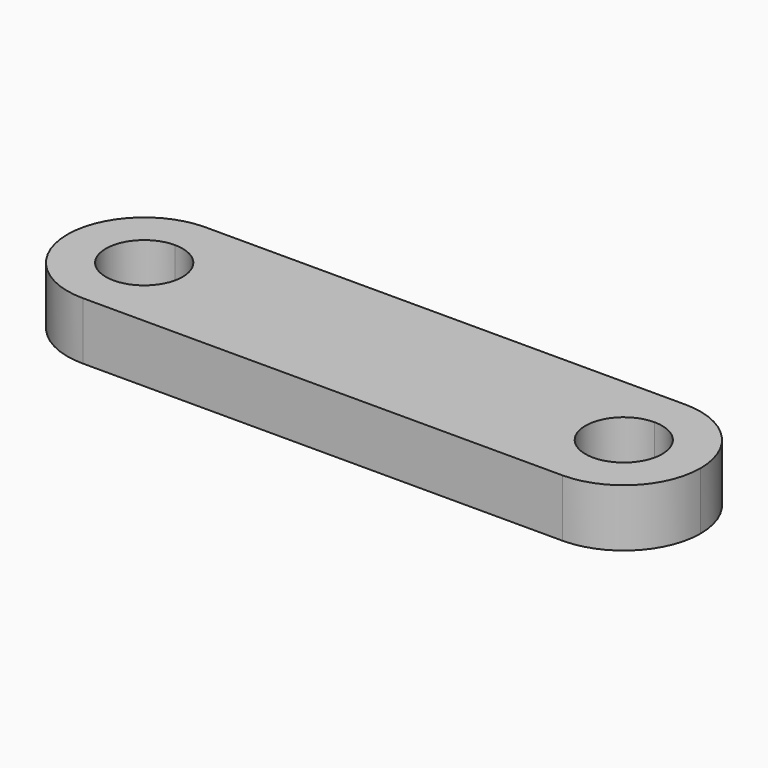
from build123d import *

# Parameters (mm, degrees)
F1_DEPTH = 3


with BuildPart() as f1:
    # F0 (on Top) → F1 (new body)
    with BuildSketch(Plane.XY):
        with BuildLine():
            ThreePointArc((12.5, 4), (8.5, 0), (12.5, -4))
            Line((12.5, -4), (12.5, -2))
            ThreePointArc((12.5, -2), (10.5, 0), (12.5, 2))
            Line((12.5, 2), (12.5, 4))
        make_face()
        with BuildLine():
            Line((-12.5, -4), (12.5, -4))
            ThreePointArc((12.5, -4), (8.5, 0), (12.5, 4))
            Line((12.5, 4), (-12.5, 4))
            ThreePointArc((-12.5, 4), (-9.6715728753, 2.8284271247), (-8.5, 0))
            ThreePointArc((-8.5, 0), (-9.6715728753, -2.8284271247), (-12.5, -4))
        make_face()
        with BuildLine():
            Line((12.5, -2), (12.5, -4))
            ThreePointArc((12.5, -4), (15.3284271247, -2.8284271247), (16.5, 0))
            ThreePointArc((16.5, 0), (15.3284271247, 2.8284271247), (12.5, 4))
            Line((12.5, 4), (12.5, 2))
            ThreePointArc((12.5, 2), (13.9142135624, 1.4142135624), (14.5, 0))
            ThreePointArc((14.5, 0), (13.9142135624, -1.4142135624), (12.5, -2))
        make_face()
        with BuildLine():
            ThreePointArc((-12.5, 4), (-16.5, 0), (-12.5, -4))
            Line((-12.5, -4), (-12.5, -2))
            ThreePointArc((-12.5, -2), (-14.5, 0), (-12.5, 2))
            Line((-12.5, 2), (-12.5, 4))
        make_face()
        with BuildLine():
            Line((-12.5, -2), (-12.5, -4))
            ThreePointArc((-12.5, -4), (-9.6715728753, -2.8284271247), (-8.5, 0))
            ThreePointArc((-8.5, 0), (-9.6715728753, 2.8284271247), (-12.5, 4))
            Line((-12.5, 4), (-12.5, 2))
            ThreePointArc((-12.5, 2), (-11.0857864376, 1.4142135624), (-10.5, 0))
            ThreePointArc((-10.5, 0), (-11.0857864376, -1.4142135624), (-12.5, -2))
        make_face()
    extrude(amount=F1_DEPTH)


solid = f1.part
